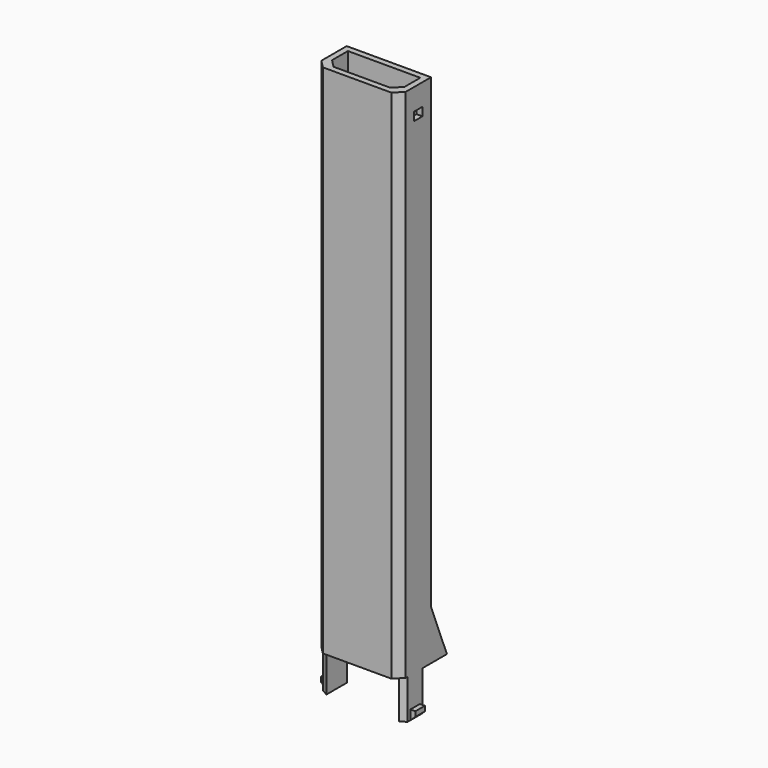
from build123d import *

# Parameters (mm, degrees)
SKETCH135_W             = 20
SKETCH135_H             = 42.5
SKETCH135_W_2           = 14
SKETCH135_H_2           = 36.5
CHAMFER006_SIZE         = 4
PAD037_DEPTH            = 20
PAD038_DEPTH            = 3
SKETCH150_W             = 5.2
SKETCH150_H             = 4.25
POCKET048_DEPTH         = 45.001
PAD039_DEPTH            = 42.5
BODY012_ROLL_ANGLE      = 90
BODY012_PLACEMENT_ANGLE = -90


with BuildPart() as part:
    # AdditivePipe002: sweep along a path in Sketch134
    with BuildLine(Plane.XY) as additivepipe002_path:
        Line((0, 0), (0, 260))
    # Sketch135 → AdditivePipe002 (sweep)
    with BuildSketch(Plane.XZ):
        Rectangle(SKETCH135_W, SKETCH135_H)
        Rectangle(SKETCH135_W_2, SKETCH135_H_2, mode=Mode.SUBTRACT)
    sweep(path=additivepipe002_path.line)

    # Chamfer006
    chamfer006_edges = [part.edges().sort_by_distance(p)[0] for p in [
        (10, 130, 21.25),
        (10, 130, -21.25),
        (7, 130, 18.25),
        (7, 130, -18.25),
    ]]
    chamfer(chamfer006_edges, length=CHAMFER006_SIZE)

    # Sketch147 (on Face1 of AdditivePipe002) → Pad037 (new body)
    with BuildSketch(Plane.XZ):
        Polygon((-4.767949, 21.25), (4.797949, 21.25), (6.53, 18.25), (-6.5, 18.25), align=None)
    pad037 = extrude(amount=PAD037_DEPTH)

    # Sketch148 (on Face13 of Pad037) → Pad038 (join, symmetric)
    with BuildSketch(Plane(origin=(0, 0, 0), x_dir=(0, 0, 1), z_dir=(1, 0, 0))):
        Polygon((21.25, 20), (23.75, 17.7), (23.75, 15.2), (21.25, 15.2), align=None)
    pad038 = extrude(amount=PAD038_DEPTH, both=True)

    # Mirrored011: Pad038, Pad037 across Sketch148 V_Axis
    add(pad038.mirror(Plane.XY))
    add(pad037.mirror(Plane.XY))

    # Sketch150 (on Face6 of Chamfer006) → Pocket048 (cut, through all)
    with BuildSketch(Plane(origin=(0, 0, 21.25), x_dir=(-1, 0, 0), z_dir=(0, 0, 1))):
        with Locations((2, -246.975)):
            Rectangle(SKETCH150_W, SKETCH150_H)
    extrude(amount=-POCKET048_DEPTH, mode=Mode.SUBTRACT)

    # Sketch151 (on Face3 of Pocket048) → Pad039 (join)
    with BuildSketch(Plane(origin=(0, 0, -21.25), x_dir=(1, 0, 0), z_dir=(0, 0, -1))):
        Polygon((-20, 0), (-10, 0), (-10, -25), align=None)
    extrude(amount=-PAD039_DEPTH)


with BuildPart() as part_1:
    # Body012 roll: moved
    add(part.part.rotate(Axis((0, 0, 0), (1, 0, 0)), BODY012_ROLL_ANGLE))


with BuildPart() as part_2:
    # Body012 placement: moved
    add(part_1.part.moved(Location((-357.518507, -26.157783, -137.100044))).rotate(Axis((-357.518507, -26.157783, -137.100044), (0, 0, 1)), BODY012_PLACEMENT_ANGLE))


solid = part_2.part
